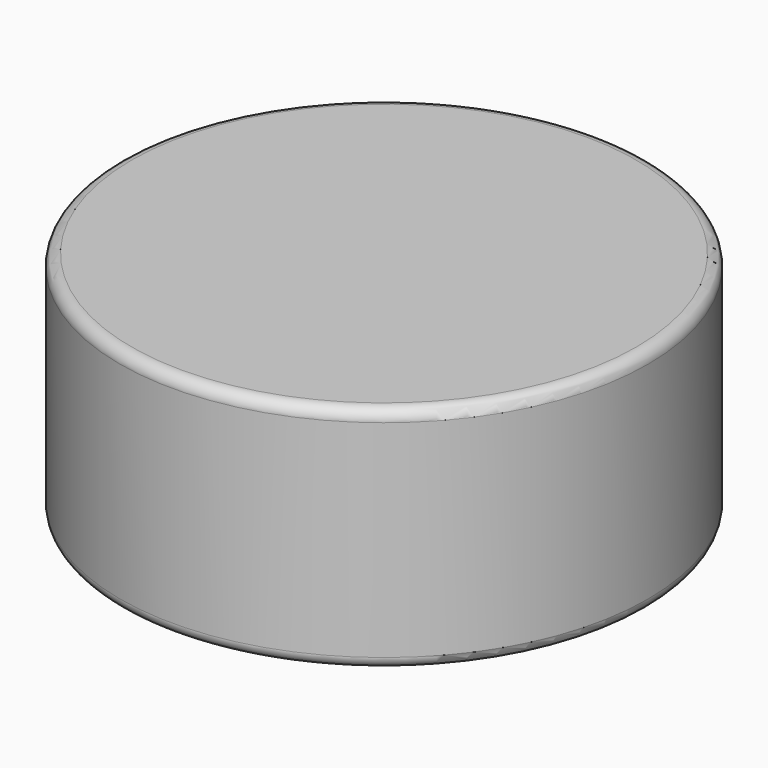
from build123d import *

# Parameters (mm, degrees)
F0_R     = 23
F0_R_2   = 20
F1_DEPTH = 20
F2_R     = 20
F3_DEPTH = 3
F4_R     = 1


with BuildPart() as f1:
    # F0 (on Top) → F1 (new body)
    with BuildSketch(Plane.XY):
        Circle(F0_R)
        Circle(F0_R_2, mode=Mode.SUBTRACT)
    extrude(amount=F1_DEPTH)

    # F2 (on face) → F3 (join)
    with BuildSketch(Plane.XY.offset(20)):
        Circle(F2_R)
    extrude(amount=-F3_DEPTH)

    # F4
    f4_edges = [f1.edges().sort_by_distance(p)[0] for p in [
        (-23, 0, 0),
        (-23, 0, 20),
    ]]
    fillet(f4_edges, radius=F4_R)


solid = f1.part
